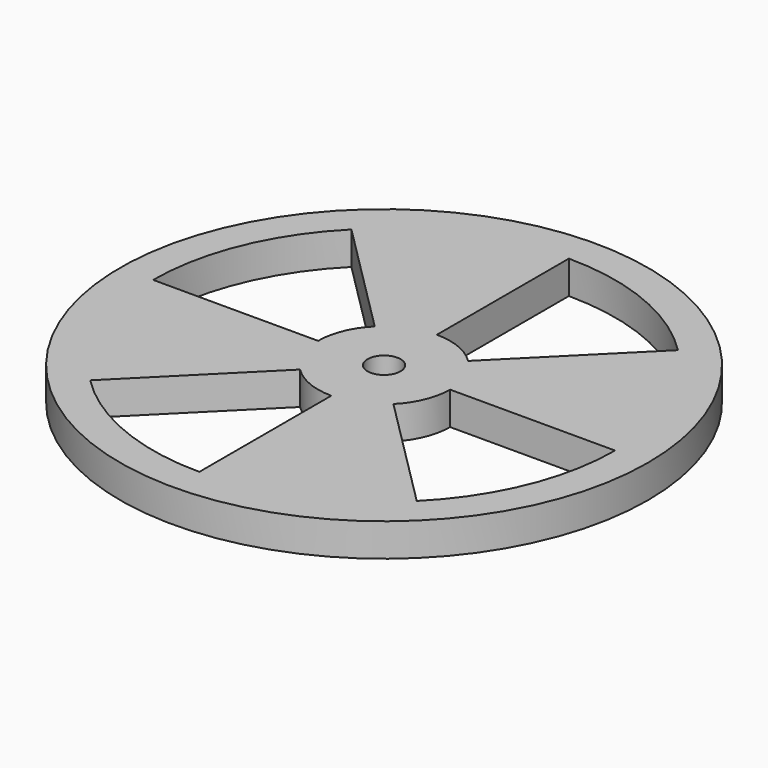
from build123d import *

# Parameters (mm, degrees)
F0_R     = 25.4
F0_R_2   = 1.5875
F1_DEPTH = 3.175


with BuildPart() as f1:
    # F0 (on Top) → F1 (new body)
    with BuildSketch(Plane.XY):
        Circle(F0_R)
        with BuildLine():
            ThreePointArc((15.7154482119, 15.7154482119), (20.5332226101, 8.5051392843), (22.225, 0))
            ThreePointArc((22.225, 0), (20.5332226101, -8.5051392843), (15.7154482119, -15.7154482119))
            ThreePointArc((15.7154482119, -15.7154482119), (8.5051392843, -20.5332226101), (0, -22.225))
            ThreePointArc((0, -22.225), (-8.5051392843, -20.5332226101), (-15.7154482119, -15.7154482119))
            ThreePointArc((-15.7154482119, -15.7154482119), (-20.5332226101, -8.5051392843), (-22.225, 0))
            ThreePointArc((-22.225, 0), (-20.5332226101, 8.5051392843), (-15.7154482119, 15.7154482119))
            ThreePointArc((-15.7154482119, 15.7154482119), (-8.5051392843, 20.5332226101), (0, 22.225))
            ThreePointArc((0, 22.225), (8.5051392843, 20.5332226101), (15.7154482119, 15.7154482119))
        make_face(mode=Mode.SUBTRACT)
        with BuildLine():
            Line((0, 6.35), (0, 22.225))
            ThreePointArc((0, 22.225), (-8.5051392843, 20.5332226101), (-15.7154482119, 15.7154482119))
            Line((-15.7154482119, 15.7154482119), (-4.4901280605, 4.4901280605))
            ThreePointArc((-4.4901280605, 4.4901280605), (-2.4300397955, 5.8666350314), (0, 6.35))
        make_face()
        with BuildLine():
            Line((6.35, 0), (22.225, 0))
            ThreePointArc((22.225, 0), (20.5332226101, 8.5051392843), (15.7154482119, 15.7154482119))
            Line((15.7154482119, 15.7154482119), (4.4901280605, 4.4901280605))
            ThreePointArc((4.4901280605, 4.4901280605), (5.8666350314, 2.4300397955), (6.35, 0))
        make_face()
        with BuildLine():
            ThreePointArc((0, -22.225), (8.5051392843, -20.5332226101), (15.7154482119, -15.7154482119))
            Line((15.7154482119, -15.7154482119), (4.4901280605, -4.4901280605))
            ThreePointArc((4.4901280605, -4.4901280605), (2.4300397955, -5.8666350314), (0, -6.35))
            Line((0, -6.35), (0, -22.225))
        make_face()
        with BuildLine():
            ThreePointArc((-22.225, 0), (-20.5332226101, -8.5051392843), (-15.7154482119, -15.7154482119))
            Line((-15.7154482119, -15.7154482119), (-4.4901280605, -4.4901280605))
            ThreePointArc((-4.4901280605, -4.4901280605), (-5.8666350314, -2.4300397955), (-6.35, 0))
            Line((-6.35, 0), (-22.225, 0))
        make_face()
        with BuildLine():
            ThreePointArc((4.4901280605, -4.4901280605), (5.8666350314, -2.4300397955), (6.35, 0))
            ThreePointArc((6.35, 0), (5.8666350314, 2.4300397955), (4.4901280605, 4.4901280605))
            ThreePointArc((4.4901280605, 4.4901280605), (2.4300397955, 5.8666350314), (0, 6.35))
            ThreePointArc((0, 6.35), (-2.4300397955, 5.8666350314), (-4.4901280605, 4.4901280605))
            ThreePointArc((-4.4901280605, 4.4901280605), (-5.8666350314, 2.4300397955), (-6.35, 0))
            ThreePointArc((-6.35, 0), (-5.8666350314, -2.4300397955), (-4.4901280605, -4.4901280605))
            ThreePointArc((-4.4901280605, -4.4901280605), (-2.4300397955, -5.8666350314), (0, -6.35))
            ThreePointArc((0, -6.35), (2.4300397955, -5.8666350314), (4.4901280605, -4.4901280605))
        make_face()
        Circle(F0_R_2, mode=Mode.SUBTRACT)
    extrude(amount=F1_DEPTH)


solid = f1.part
